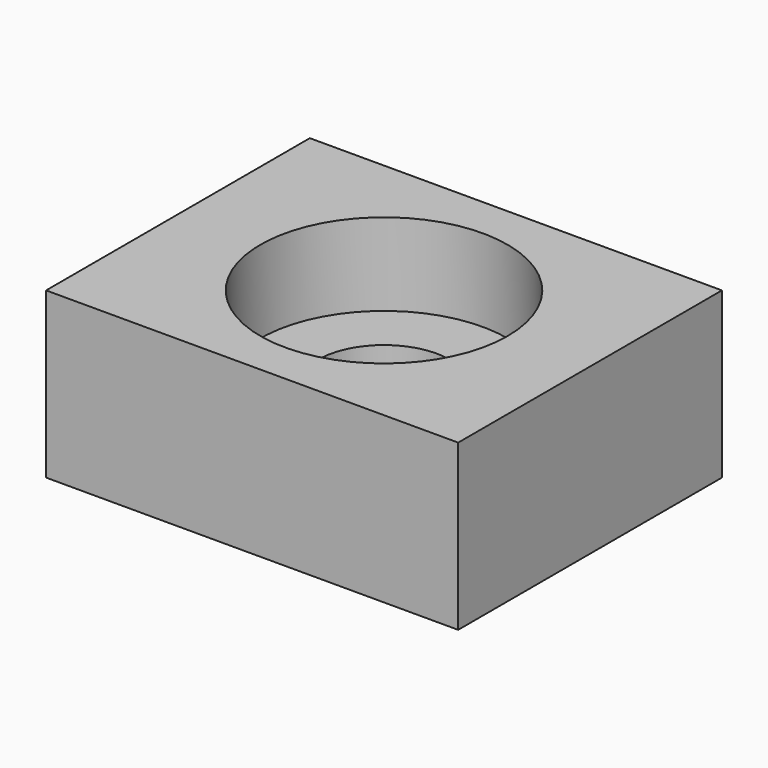
from build123d import *

# Parameters (mm, degrees)
F0_W     = 25
F0_H     = 20
F0_R     = 4
F1_DEPTH = 10
F2_R     = 7.5
F3_DEPTH = 5
F4_W     = 14.7
F4_H     = 9.7
F4_R     = 4
F5_DEPTH = 0.5


with BuildPart() as f1:
    # F0 (on Top) → F1 (new body)
    with BuildSketch(Plane.XY):
        Rectangle(F0_W, F0_H)
        Circle(F0_R, mode=Mode.SUBTRACT)
    extrude(amount=F1_DEPTH)

    # F2 (on face) → F3 (cut)
    with BuildSketch(Plane.XY.offset(10)):
        Circle(F2_R)
    extrude(amount=-F3_DEPTH, mode=Mode.SUBTRACT)

    # F4 (on face) → F5 (join)
    with BuildSketch(Plane(origin=(0, 0, 0), x_dir=(1, 0, 0), z_dir=(0, 0, -1))):
        Rectangle(F4_W, F4_H)
        Circle(F4_R, mode=Mode.SUBTRACT)
    extrude(amount=F5_DEPTH)


solid = f1.part
